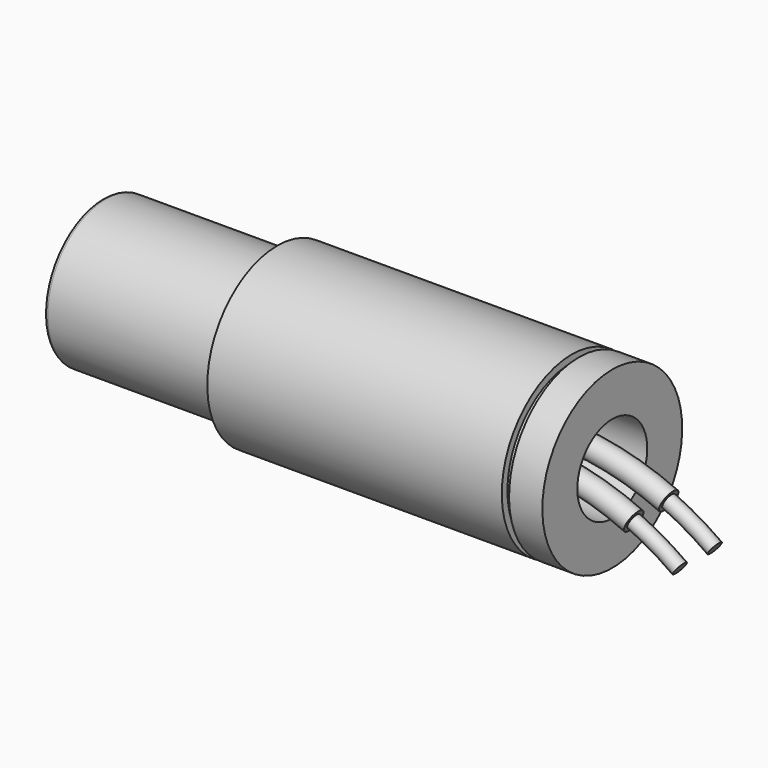
from build123d import *

# Parameters (mm, degrees)
F2_R     = 0.5
F2_R_2   = 0.75
F6_W     = 0.5
F6_H     = 0.575756
F8_R     = 0.254
F9_R     = 0.254
F10_SIZE = 0.508


with BuildPart() as f1:
    # F0 (on Front) → F1 (revolve)
    with BuildSketch(Plane.XZ):
        Polygon((0, 5), (0, 3), (5.08, 3), (5.08, 0), (29.92, 0), (29.92, 3), (35, 3), (35, 6), (12, 6), (12, 5), align=None)
    revolve(axis=Axis((17.5, 0, 0), (-1, 0, 0)))

    # F4: sweep along a path in F3
    with BuildLine(Plane.XZ) as f4_path:
        ThreePointArc((37.670611, -1.684892), (33.885817, -0.426085), (29.92, 0))
    # F2 (on face) → F4 (sweep)
    with BuildSketch(Plane.YZ.offset(29.92)):
        with BuildLine():
            ThreePointArc((2, 0), (1.5, 0.5), (1, 0))
            ThreePointArc((1, 0), (1.5, -0.5), (2, 0))
        make_face()
        with BuildLine():
            ThreePointArc((2.25, 0), (1.5, 0.75), (0.75, 0))
            ThreePointArc((0.75, 0), (1.5, -0.75), (2.25, 0))
        make_face()
        with BuildLine():
            ThreePointArc((2, 0), (1.5, -0.5), (1, 0))
            ThreePointArc((1, 0), (1.5, 0.5), (2, 0))
        make_face(mode=Mode.SUBTRACT)
        with Locations((-1.5, 0)):
            Circle(F2_R)
        with Locations((-1.5, 0)):
            Circle(F2_R_2)
        with Locations((-1.5, 0)):
            Circle(F2_R, mode=Mode.SUBTRACT)
    sweep(path=f4_path.line)

    # F5: sweep along a path in F3
    with BuildLine(Plane.XZ) as f5_path:
        ThreePointArc((29.92, 0), (35.652775, -0.901979), (40.831604, -3.52076))
    # F2 (on face) → F5 (sweep)
    with BuildSketch(Plane.YZ.offset(29.92)):
        with Locations((-1.5, 0)):
            Circle(F2_R)
        with BuildLine():
            ThreePointArc((2, 0), (1.5, 0.5), (1, 0))
            ThreePointArc((1, 0), (1.5, -0.5), (2, 0))
        make_face()
    sweep(path=f5_path.line)

    # F6 (on Top) → F7 (revolve, cut)
    with BuildSketch(Plane.XY):
        with Locations((32.466017, -5.805497)):
            Rectangle(F6_W, F6_H)
    revolve(axis=Axis((32.14075, 0, 0), (-1, 0, 0)), mode=Mode.SUBTRACT)

    # F8
    f8_edges = [f1.edges().sort_by_distance(p)[0] for p in [
        (12, 0, -5),
    ]]
    fillet(f8_edges, radius=F8_R)

    # F9
    f9_edges = [f1.edges().sort_by_distance(p)[0] for p in [
        (0, 0, -5),
    ]]
    fillet(f9_edges, radius=F9_R)

    # F10
    f10_edges = [f1.edges().sort_by_distance(p)[0] for p in [
        (0, 0, -3),
    ]]
    chamfer(f10_edges, length=F10_SIZE)


solid = f1.part
